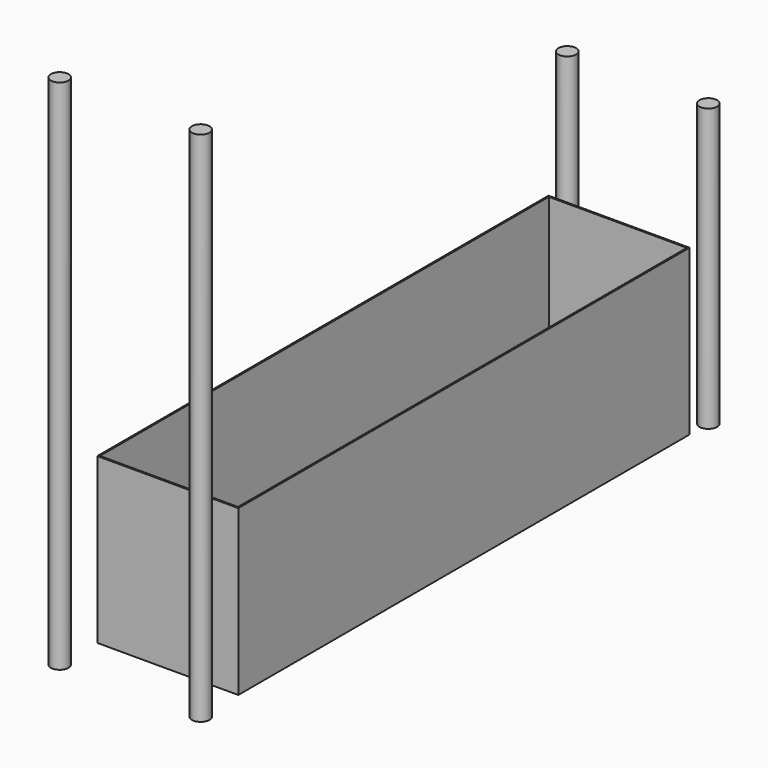
from build123d import *

# Parameters (mm, degrees)
F0_W     = 304.8
F0_H     = 1219.2
F1_DEPTH = 355.6
F2_T     = -3.175
F3_R     = 19.05
F4_DEPTH = 1117.6
F5_R     = 19.05
F6_DEPTH = 609.6


with BuildPart() as f1:
    # F0 (on Top) → F1 (new body)
    with BuildSketch(Plane.XY):
        with Locations((152.4, 609.6)):
            Rectangle(F0_W, F0_H)
    extrude(amount=F1_DEPTH)

    # F2
    f2_openings = [f1.faces().sort_by_distance(p)[0] for p in [
        (152.4, 609.6, 355.6),
    ]]
    offset(amount=F2_T, openings=f2_openings)


with BuildPart() as f4:
    # F3 (on face) → F4 (new body)
    with BuildSketch(Plane(origin=(0, 0, 0), x_dir=(1, 0, 0), z_dir=(0, 0, -1))):
        with Locations((0, 101.6)):
            Circle(F3_R)
        with Locations((304.8, 101.6)):
            Circle(F3_R)
    extrude(amount=-F4_DEPTH)


with BuildPart() as f6:
    # F5 (on face) → F6 (new body)
    with BuildSketch(Plane(origin=(0, 0, 0), x_dir=(1, 0, 0), z_dir=(0, 0, -1))):
        with Locations((0, -1270)):
            Circle(F5_R)
        with Locations((304.8, -1270)):
            Circle(F5_R)
    extrude(amount=-F6_DEPTH)


solid = Compound([f1.part, f4.part, f6.part])
